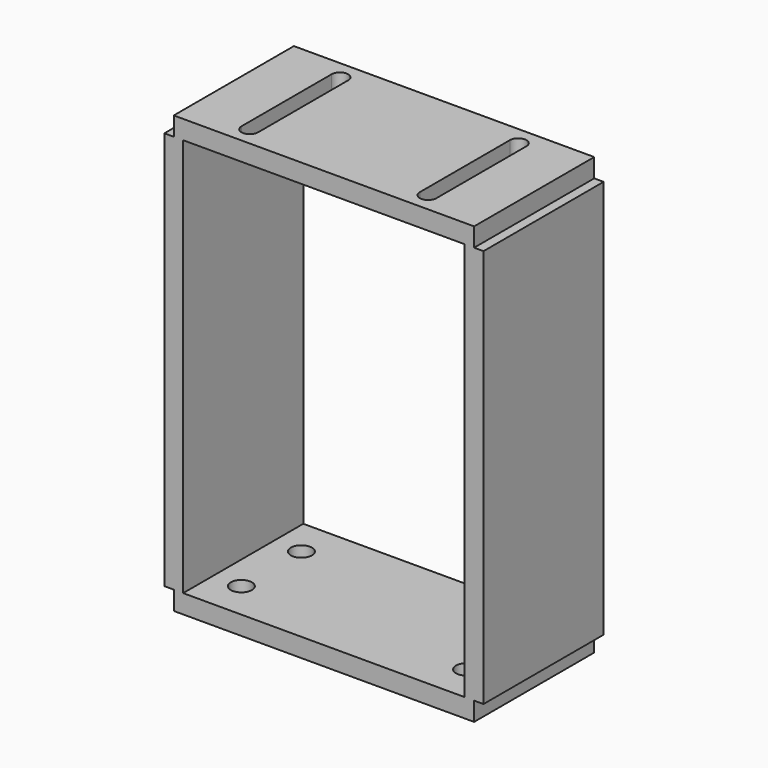
from build123d import *

# Parameters (mm, degrees)
F0_W     = 203.2
F0_H     = 101.6
F1_DEPTH = 12.7
F2_D     = 14.2875
F4_W     = 203.2
F4_H     = 101.6
F5_DEPTH = 12.7
F6_W     = 101.6
F6_H     = 269.748
F7_DEPTH = 6.35


with BuildPart() as f1:
    # F0 (on Top) → F1 (new body)
    with BuildSketch(Plane.XY):
        Rectangle(F0_W, F0_H)
    extrude(amount=F1_DEPTH)

    # F2 (through all)
    with Locations(Plane(origin=(0, 0, 0), x_dir=(1, 0, 0), z_dir=(0, 0, -1))):
        with Locations((-76.2, 25.4), (-76.2, -25.4), (76.2, -25.4), (76.2, 25.4)):
            Hole(F2_D / 2)



with BuildPart() as f5:
    # F4 (on offset) → F5 (new body)
    with BuildSketch(Plane.XY.offset(295.148)):
        Rectangle(F4_W, F4_H)
        with BuildLine():
            Line((-65.913, -38.1), (-65.913, 38.1))
            ThreePointArc((-65.913, 38.1), (-60.325, 43.688), (-54.737, 38.1))
            Line((-54.737, 38.1), (-54.737, -38.1))
            ThreePointArc((-54.737, -38.1), (-60.325, -43.688), (-65.913, -38.1))
        make_face(mode=Mode.SUBTRACT)
        with BuildLine():
            ThreePointArc((54.737, 38.1), (60.325, 43.688), (65.913, 38.1))
            Line((65.913, 38.1), (65.913, -38.1))
            ThreePointArc((65.913, -38.1), (60.325, -43.688), (54.737, -38.1))
            Line((54.737, -38.1), (54.737, 38.1))
        make_face(mode=Mode.SUBTRACT)
    extrude(amount=-F5_DEPTH)


with BuildPart() as f1_1:
    add(f1.part)

    add(f5.part)  # F7 merges F5
    # F6 (on face) → F7 (join, symmetric)
    with BuildSketch(Plane.YZ.offset(101.6)):
        with Locations((0, 147.574)):
            Rectangle(F6_W, F6_H)
    extrude(amount=F7_DEPTH, both=True)

    # F8: F1 across plane


with BuildPart() as f1_2:
    add(f1_1.part)
    add(f1_1.part.mirror(Plane.YZ))


solid = f1_2.part
